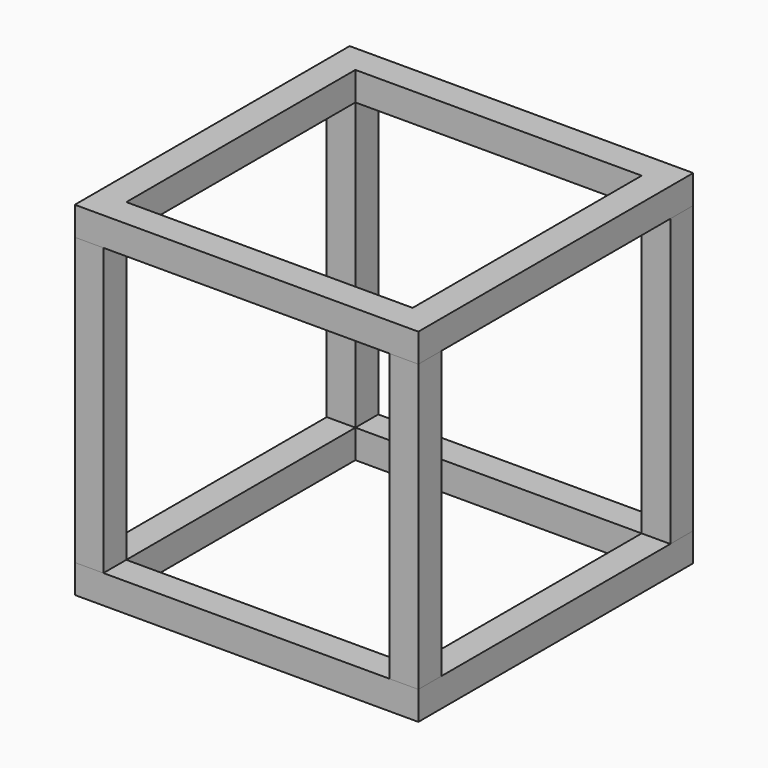
from build123d import *

# Parameters (mm, degrees)
F0_W     = 609.6
F0_H     = 609.6
F0_W_2   = 508
F0_H_2   = 508
F1_DEPTH = 50.8
F4_W     = 50.8
F4_H     = 508
F5_DEPTH = 50.8


with BuildPart() as f1:
    # F0 (on Top) → F1 (new body)
    with BuildSketch(Plane.XY):
        Rectangle(F0_W, F0_H)
        Rectangle(F0_W_2, F0_H_2, mode=Mode.SUBTRACT)
    extrude(amount=F1_DEPTH)


with BuildPart() as f3_1:
    # F3: instance of F1
    add(f1.part.mirror(Plane.XY.offset(304.8)))


with BuildPart() as f5:
    # F4 (on face) → F5 (new body)
    with BuildSketch(Plane.XZ.offset(304.8)):
        with Locations((-279.4, 304.8)):
            Rectangle(F4_W, F4_H)
    extrude(amount=-F5_DEPTH)


with BuildPart() as f5b:
    # F4 (on face) → F5, piece 2 (new body)
    with BuildSketch(Plane.XZ.offset(304.8)):
        with Locations((279.4, 304.8)):
            Rectangle(F4_W, F4_H)
    extrude(amount=-F5_DEPTH)


with BuildPart() as f7_1:
    # F7: instance of F5b
    add(f5b.part.mirror(Plane(origin=(0, 0, 584.2), x_dir=(-1, 0, 0), z_dir=(0, 1, 0))))


with BuildPart() as f8_1:
    # F8: instance of F5
    add(f5.part.mirror(Plane(origin=(0, 0, 584.2), x_dir=(-1, 0, 0), z_dir=(0, 1, 0))))


solid = Compound([f1.part, f3_1.part, f5.part, f5b.part, f7_1.part, f8_1.part])
